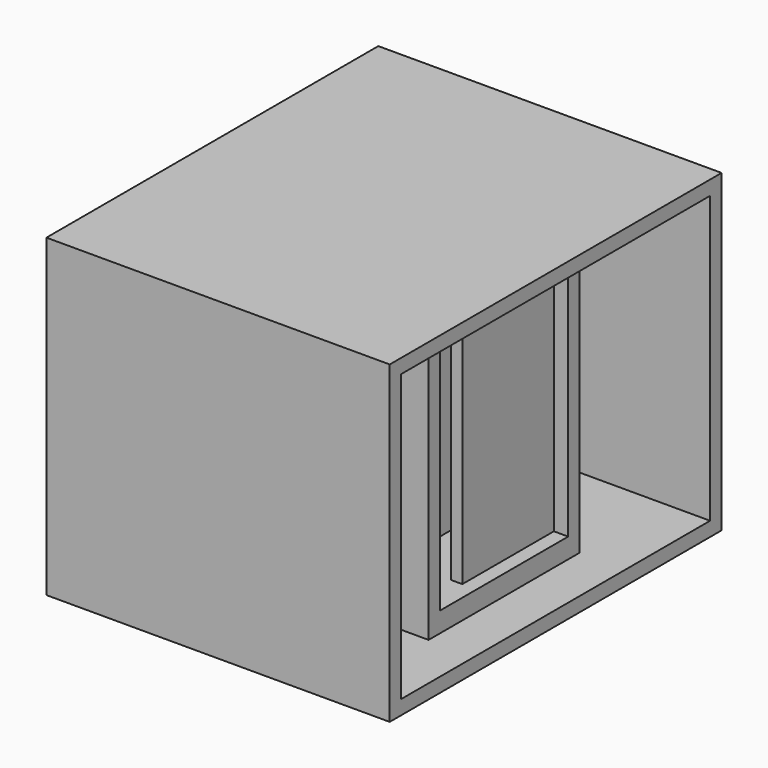
from build123d import *

# Parameters (mm, degrees)
SKETCH037_W     = 72.5
SKETCH037_H     = 55
PAD018_DEPTH    = 60
SKETCH038_W     = 67.5
SKETCH038_H     = 50
POCKET013_DEPTH = 60.001
SKETCH039_W     = 67.5
SKETCH039_H     = 4
PAD019_DEPTH    = 50
SKETCH040_R     = 2.2
HOLE006_DEPTH   = 25
SKETCH041_W     = 28
SKETCH041_H     = 43
POCKET014_DEPTH = 4
SKETCH042_W     = 33
SKETCH042_H     = 50
SKETCH042_W_2   = 28
SKETCH042_H_2   = 43
PAD020_DEPTH    = 40
SKETCH043_W     = 20
SKETCH043_H     = 2
PAD021_DEPTH    = 43


with BuildPart() as part:
    # Sketch037 → Pad018 (new body)
    with BuildSketch(Plane.YZ.offset(120)):
        with Locations((1.26, 27.5)):
            Rectangle(SKETCH037_W, SKETCH037_H)
    extrude(amount=PAD018_DEPTH)

    # Sketch038 (on Face5 of Pad018) → Pocket013 (cut, through all)
    with BuildSketch(Plane(origin=(120, 0, 0), x_dir=(0, 1, 0), z_dir=(-1, 0, 0))):
        with Locations((1.25, -27.5)):
            Rectangle(SKETCH038_W, SKETCH038_H)
    extrude(amount=-POCKET013_DEPTH, mode=Mode.SUBTRACT)

    # Sketch039 (on Face8 of Pocket013) → Pad019 (join)
    with BuildSketch(Plane(origin=(0, 0, 2.5), x_dir=(0, -1, 0), z_dir=(0, 0, 1))):
        with Locations((-1.25, 130)):
            Rectangle(SKETCH039_W, SKETCH039_H)
    extrude(amount=PAD019_DEPTH)

    # Sketch040 (on Face16 of Pad019) → Hole006 (cut)
    with BuildSketch(Plane.YZ.offset(132)):
        with Locations((-25.99, 42.5)):
            Circle(SKETCH040_R)
        with Locations((-23, 9)):
            Circle(SKETCH040_R)
        with Locations((23, 9)):
            Circle(SKETCH040_R)
    extrude(amount=-HOLE006_DEPTH, mode=Mode.SUBTRACT)

    # Sketch041 (on Face16 of Hole006) → Pocket014 (cut)
    with BuildSketch(Plane.YZ.offset(132)):
        with Locations((0, 27.5)):
            Rectangle(SKETCH041_W, SKETCH041_H)
    extrude(amount=-POCKET014_DEPTH, mode=Mode.SUBTRACT)

    # Sketch042 (on Face16 of Pocket014) → Pad020 (join)
    with BuildSketch(Plane.YZ.offset(132)):
        with Locations((0, 27.5)):
            Rectangle(SKETCH042_W, SKETCH042_H)
        with Locations((0, 27.5)):
            Rectangle(SKETCH042_W_2, SKETCH042_H_2, mode=Mode.SUBTRACT)
    extrude(amount=PAD020_DEPTH)

    # Sketch043 (on Face29 of Pad020) → Pad021 (join)
    with BuildSketch(Plane(origin=(0, 0, 6), x_dir=(0, -1, 0), z_dir=(0, 0, 1))):
        with Locations((-4, 168.5)):
            Rectangle(SKETCH043_W, SKETCH043_H)
        with Locations((4, 157.333333)):
            Rectangle(SKETCH043_W, SKETCH043_H)
        with Locations((-4, 146.166667)):
            Rectangle(SKETCH043_W, SKETCH043_H)
        with Locations((4, 135)):
            Rectangle(SKETCH043_W, SKETCH043_H)
    extrude(amount=PAD021_DEPTH)


solid = part.part
